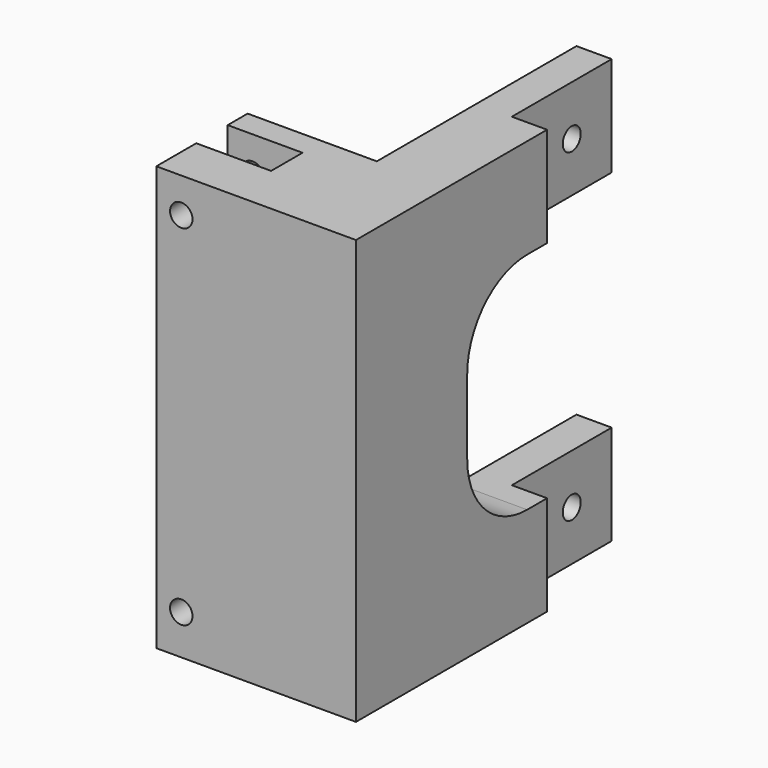
from build123d import *

# Parameters (mm, degrees)
F1_DEPTH = 85
F2_R     = 2.25
F3_DEPTH = 50
F4_R     = 2.25
F5_DEPTH = 25
F6_W     = 7.057262
F6_H     = 25
F7_DEPTH = 85


with BuildPart() as f1:
    # F0 (on Top) → F1 (new body)
    with BuildSketch(Plane.XY):
        Polygon((-30.368601, 20.967192), (-30.368601, 15.967192), (-15.368601, 15.967192), (-15.368601, 8.098098), (-30.368601, 8.098098), (-30.368601, -1.901902), (9.631399, -1.901902), (9.631399, 70.967192), (-4.483124, 70.967192), (-4.483124, 20.967192), align=None)
    extrude(amount=F1_DEPTH)

    # F2 (on face) → F3 (cut)
    with BuildSketch(Plane(origin=(0, 20.967192, 0), x_dir=(-1, 0, 0), z_dir=(0, 1, 0))):
        with Locations((25.368601, 8)):
            Circle(F2_R)
        with Locations((25.368601, 78)):
            Circle(F2_R)
    extrude(amount=-F3_DEPTH, mode=Mode.SUBTRACT)

    # F4 (on face) → F5 (cut)
    with BuildSketch(Plane(origin=(-4.483124, 0, 0), x_dir=(0, -1, 0), z_dir=(-1, 0, 0))):
        with BuildLine():
            Line((-70.967192, 65), (-70.967192, 20))
            Line((-70.967192, 20), (-40.967192, 20))
            ThreePointArc((-40.967192, 20), (-30.36059, 24.393398), (-25.967192, 35))
            Line((-25.967192, 35), (-25.967192, 50))
            ThreePointArc((-25.967192, 50), (-30.36059, 60.606602), (-40.967192, 65))
            Line((-40.967192, 65), (-70.967192, 65))
        make_face()
        with Locations((-60.967192, 75)):
            Circle(F4_R)
        with Locations((-60.967192, 10)):
            Circle(F4_R)
    extrude(amount=-F5_DEPTH, mode=Mode.SUBTRACT)

    # F6 (on face) → F7 (cut)
    with BuildSketch(Plane.XY.offset(85)):
        with Locations((6.102768, 58.467192)):
            Rectangle(F6_W, F6_H)
    extrude(amount=-F7_DEPTH, mode=Mode.SUBTRACT)


solid = f1.part
